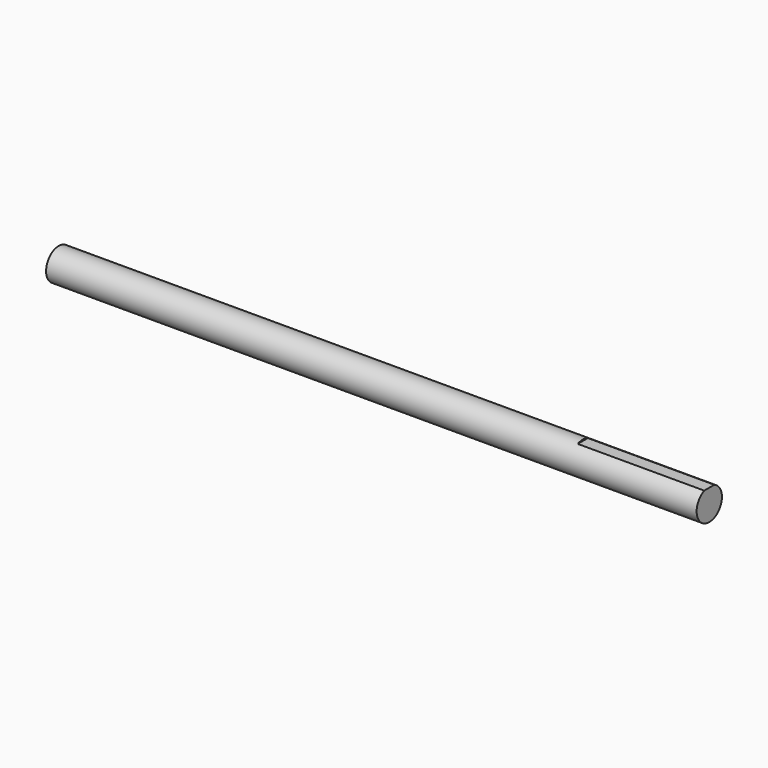
from build123d import *

# Parameters (mm, degrees)
F0_R     = 22.225
F1_DEPTH = 914.4
F3_DEPTH = 177.8
F4_ANGLE = 90


with BuildPart() as f1:
    # F0 (on Right) → F1 (new body)
    with BuildSketch(Plane.YZ):
        Circle(F0_R)
    extrude(amount=F1_DEPTH)

    # F2 (on face) → F3 (cut)
    with BuildSketch(Plane.YZ.offset(914.4)):
        with BuildLine():
            Line((20.3695489641, 8.89), (20.3695489641, -8.89))
            ThreePointArc((20.3695489641, -8.89), (21.7561928049, -4.540781831), (22.225, 0))
            ThreePointArc((22.225, 0), (21.7561928049, 4.540781831), (20.3695489641, 8.89))
        make_face()
    extrude(amount=-F3_DEPTH, mode=Mode.SUBTRACT)


with BuildPart() as f1_1:
    # F4: moved
    add(f1.part.rotate(Axis((0, 0, 0), (1, 0, 0)), F4_ANGLE))


solid = f1_1.part
